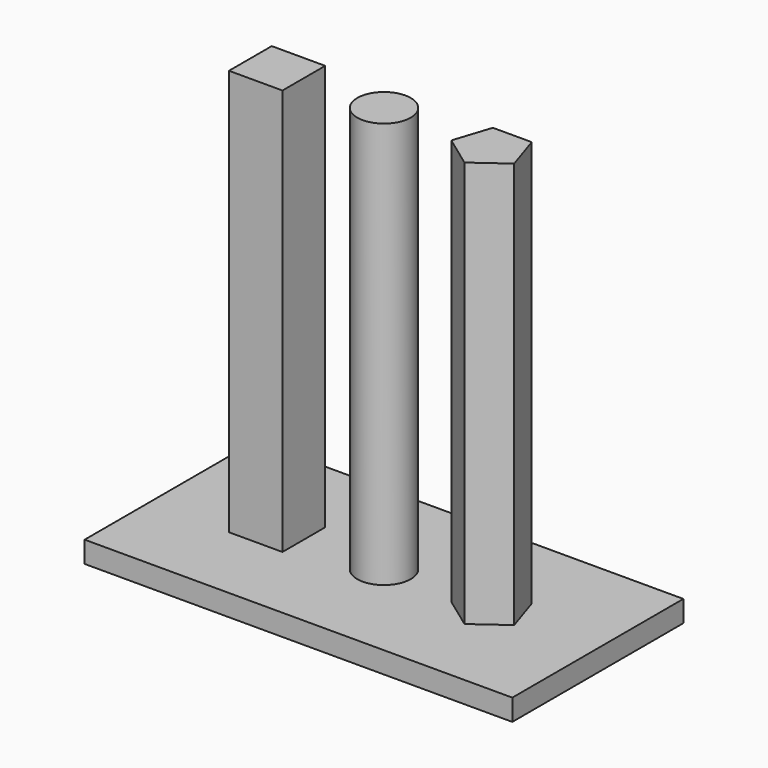
from build123d import *

# Parameters (mm, degrees)
F0_W     = 5
F0_H     = 5
F0_R     = 2.5
F0_W_2   = 40
F0_H_2   = 20
F1_DEPTH = 2
F2_DEPTH = 40


with BuildPart() as f1:
    # F0 (on Top) → F1 (new body)
    with BuildSketch(Plane.XY):
        with Locations((-10, 0)):
            Rectangle(F0_W, F0_H)
        Circle(F0_R)
        Polygon((11.816356, 2.5), (8.183644, 2.5), (7.061074, -0.954915), (10, -3.09017), (12.938926, -0.954915), align=None)
        Rectangle(F0_W_2, F0_H_2)
        Polygon((7.061074, -0.954915), (8.183644, 2.5), (11.816356, 2.5), (12.938926, -0.954915), (10, -3.09017), align=None, mode=Mode.SUBTRACT)
        with Locations((-10, 0)):
            Rectangle(F0_W, F0_H, mode=Mode.SUBTRACT)
        Circle(F0_R, mode=Mode.SUBTRACT)
    extrude(amount=F1_DEPTH)

    # F0 (on Top) → F2 (join)
    with BuildSketch(Plane.XY):
        with Locations((-10, 0)):
            Rectangle(F0_W, F0_H)
        Circle(F0_R)
        Polygon((11.816356, 2.5), (8.183644, 2.5), (7.061074, -0.954915), (10, -3.09017), (12.938926, -0.954915), align=None)
    extrude(amount=F2_DEPTH)


solid = f1.part
